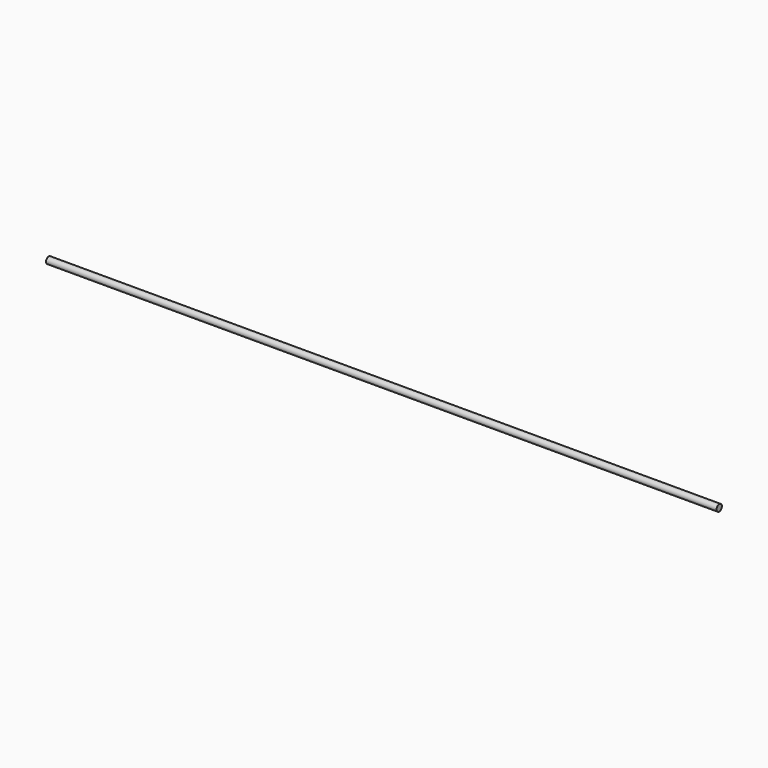
from build123d import *

# Parameters (mm, degrees)
F0_R     = 2.38125
F1_DEPTH = 482.6
F2_R     = 6.096
F2_R_2   = 1.5875
F3_DEPTH = 3.175


with BuildPart() as f1:
    # F0 (on Right) → F1 (new body)
    with BuildSketch(Plane.YZ):
        Circle(F0_R)
    extrude(amount=-F1_DEPTH)


with BuildPart() as f3:
    # F2 (on Right) → F3 (new body)
    with BuildSketch(Plane.YZ):
        with Locations((-50.084271, 0)):
            Circle(F2_R)
        with Locations((-50.084271, 0)):
            Circle(F2_R_2, mode=Mode.SUBTRACT)
    extrude(amount=-F3_DEPTH)


solid = f1.part
